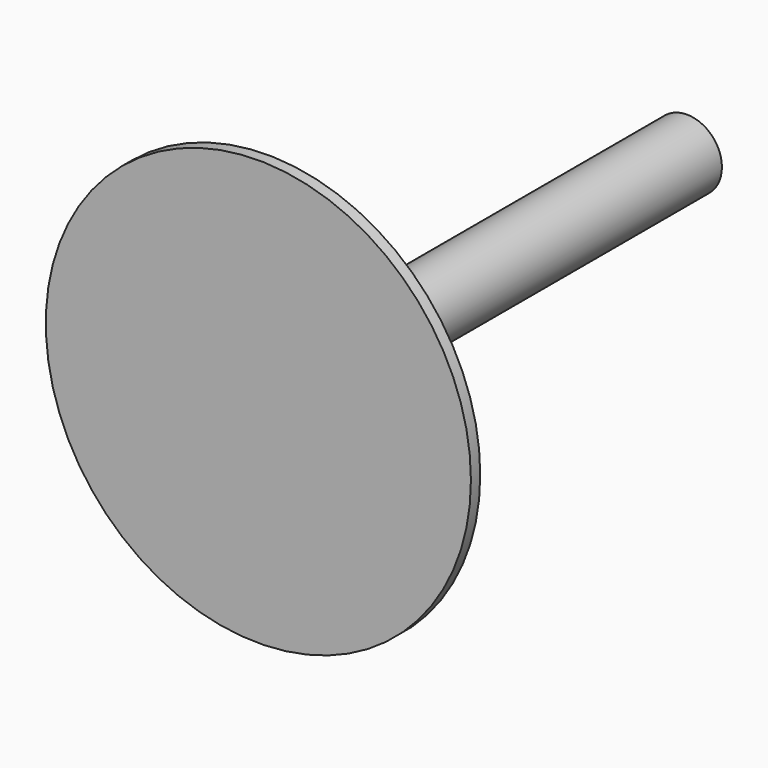
from build123d import *

# Parameters (mm, degrees)
F0_R     = 3
F1_DEPTH = 45
F2_R     = 18.2505
F2_R_2   = 3
F3_DEPTH = 1


with BuildPart() as f1:
    # F0 (on Front) → F1 (new body)
    with BuildSketch(Plane.XZ):
        Circle(F0_R)
    extrude(amount=F1_DEPTH)

    # F2 (on face) → F3 (join)
    with BuildSketch(Plane.XZ.offset(45)):
        Circle(F2_R)
        Circle(F2_R_2, mode=Mode.SUBTRACT)
        Circle(F2_R_2)
    extrude(amount=F3_DEPTH)


solid = f1.part
